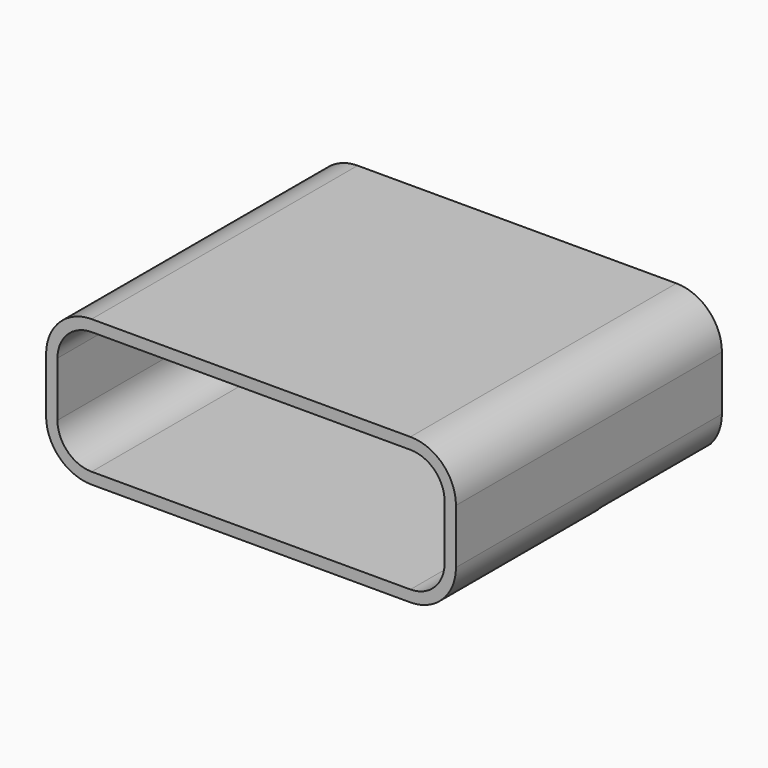
from build123d import *

# Parameters (mm, degrees)
BOX067_W               = 8.5
BOX067_H               = 2.95
BOX067_DEPTH           = 3
FILLET018_R            = 0.75
EXTRUDE016_DEPTH       = 7.3
CUT016_PLACEMENT_ANGLE = 90


with BuildPart() as fillet010:
    # Box067 → Box067 (new body)
    with BuildSketch(Plane(origin=(-4.25, 0, 0), x_dir=(1, 0, 0), z_dir=(0, 0, 1))):
        with Locations((4.25, 1.475)):
            Rectangle(BOX067_W, BOX067_H)
    extrude(amount=BOX067_DEPTH)

    # Fillet018
    fillet018_edges = [fillet010.edges().sort_by_distance(p)[0] for p in [
        (-4.25, 2.95, 1.5),
        (4.25, 2.95, 1.5),
    ]]
    fillet(fillet018_edges, radius=FILLET018_R)


with BuildPart() as shield001:
    # Sketch030 → Extrude016 (new body)
    with BuildSketch(Plane.XY):
        with BuildLine():
            Line((-3.5, 3.2), (3.5, 3.2))
            ThreePointArc((4.5, 2.2), (4.207107, 2.907107), (3.5, 3.2))
            Line((4.5, 2.2), (4.5, 1))
            ThreePointArc((3.5, 0), (4.207107, 0.292893), (4.5, 1))
            Line((-3.5, 0), (3.5, 0))
            ThreePointArc((-4.5, 1), (-4.207107, 0.292893), (-3.5, 0))
            Line((-4.5, 2.2), (-4.5, 1))
            ThreePointArc((-3.5, 3.2), (-4.207107, 2.907107), (-4.5, 2.2))
        make_face()
        with BuildLine():
            Line((-3.5, 2.95), (3.5, 2.95))
            ThreePointArc((4.25, 2.2), (4.03033, 2.73033), (3.5, 2.95))
            Line((4.25, 2.2), (4.25, 1))
            ThreePointArc((3.5, 0.25), (4.03033, 0.46967), (4.25, 1))
            Line((3.5, 0.25), (-3.5, 0.25))
            ThreePointArc((-4.25, 1), (-4.03033, 0.46967), (-3.5, 0.25))
            Line((-4.25, 1), (-4.25, 2.2))
            ThreePointArc((-3.5, 2.95), (-4.03033, 2.73033), (-4.25, 2.2))
        make_face(mode=Mode.SUBTRACT)
    extrude(amount=EXTRUDE016_DEPTH)

    # Cut016: cut Fillet010
    add(fillet010.part, mode=Mode.SUBTRACT)


with BuildPart() as shield001_1:
    # Cut016 placement: moved
    add(shield001.part.rotate(Axis((0, 0, 0), (1, 0, 0)), CUT016_PLACEMENT_ANGLE))


solid = shield001_1.part
